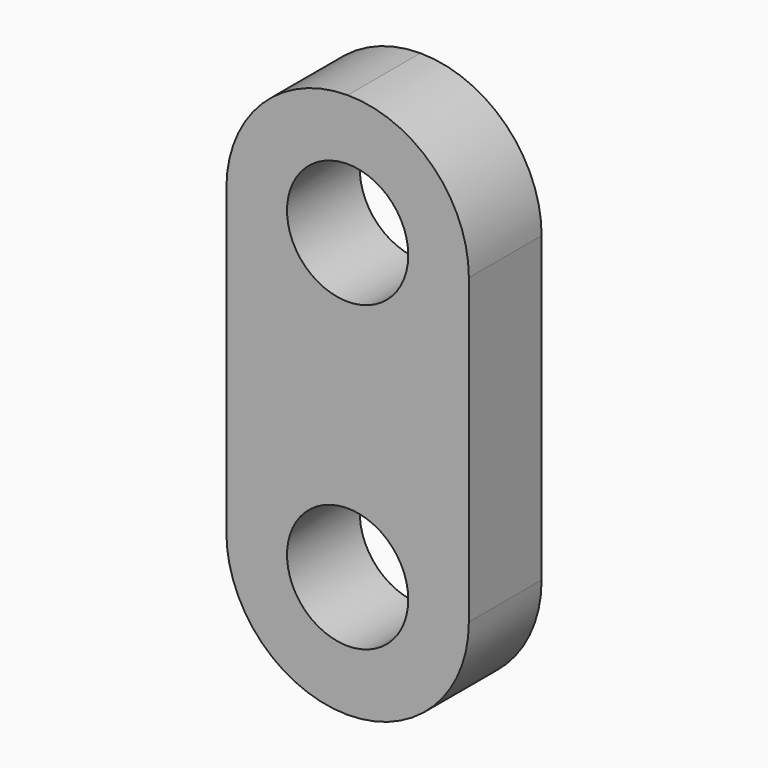
from build123d import *

# Parameters (mm, degrees)
F0_R     = 50.8
F1_DEPTH = 76.2


with BuildPart() as f1:
    # F0 (on Front) → F1 (new body)
    with BuildSketch(Plane.XZ):
        with BuildLine():
            Line((-101.6, 254), (-101.6, 0))
            ThreePointArc((-101.6, 0), (-71.842049, -71.842049), (0, -101.6))
            ThreePointArc((0, -101.6), (71.842049, -71.842049), (101.6, 0))
            Line((101.6, 0), (101.6, 254))
            ThreePointArc((101.6, 254), (71.842049, 325.842049), (0, 355.6))
            ThreePointArc((0, 355.6), (-71.842049, 325.842049), (-101.6, 254))
        make_face()
        Circle(F0_R, mode=Mode.SUBTRACT)
        with Locations((0, 254)):
            Circle(F0_R, mode=Mode.SUBTRACT)
    extrude(amount=F1_DEPTH)


solid = f1.part
